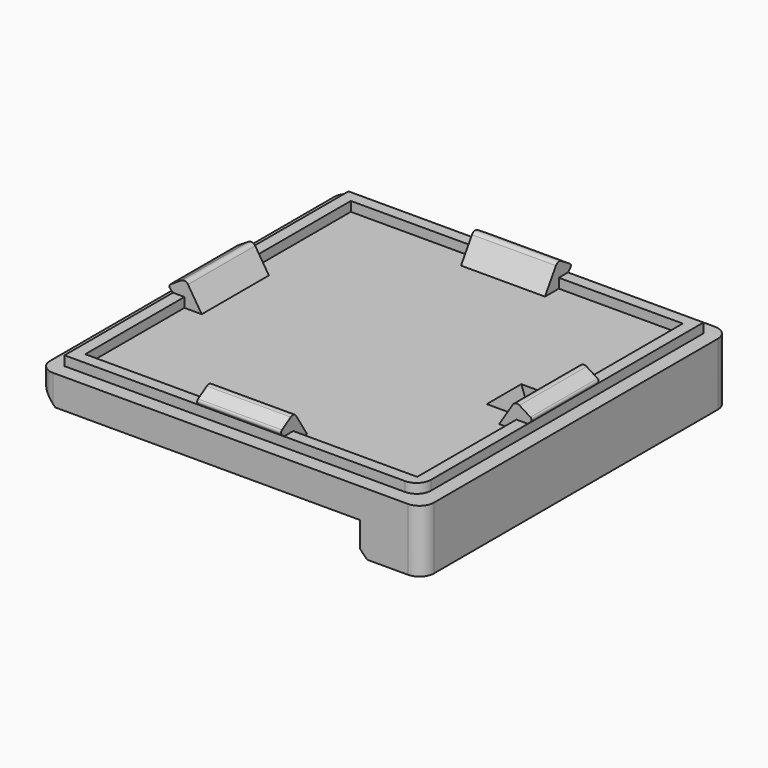
from build123d import *

# Parameters (mm, degrees)
SKETCH_W           = 80
SKETCH_H           = 80
PAD_DEPTH          = 13
PAD001_DEPTH       = 8.75
POLARPATTERN_COUNT = 4
SKETCH006_W        = 67
SKETCH006_H        = 6.8
POCKET_DEPTH       = 40.001
POCKET_DEPTH_BACK  = 40.001
SKETCH008_W        = 9
SKETCH008_H        = 9
CHAMFER_SIZE       = 3.5
FILLET_R           = 3
CHAMFER002_SIZE    = 1.5
SKETCH014_W        = 74
SKETCH014_H        = 74
SKETCH014_W_2      = 69.2
SKETCH014_H_2      = 69.2
PAD005_DEPTH       = 2
FILLET003_R        = 3


with BuildPart() as part:
    # Sketch → Pad (new body)
    with BuildSketch(Plane.XY):
        Rectangle(SKETCH_W, SKETCH_H)
    extrude(amount=-PAD_DEPTH)

    # Sketch001 → Pad001 (join, symmetric)
    with BuildSketch(Plane.YZ):
        with BuildLine():
            Line((31, 0), (33.85683, 4.513208))
            ThreePointArc((35.236626, 4.82331), (34.482504, 4.954025), (33.85683, 4.513208))
            Line((35.236626, 4.82331), (37.517423, 3.379581))
            ThreePointArc((37.603553, 2.603553), (37.746949, 3.012262), (37.517423, 3.379581))
            Line((37.603553, 2.603553), (37, 2))
            Line((37, 2), (37, 0))
            Line((37, 0), (31, 0))
        make_face()
    pad001 = extrude(amount=PAD001_DEPTH, both=True)

    # PolarPattern: Pad001 ×4 about axis
    polarpattern_axis = Axis((0, 0, 0), (0, 0, 1))
    for i in range(1, POLARPATTERN_COUNT):
        add(pad001.rotate(polarpattern_axis, i * 360 / POLARPATTERN_COUNT))

    # Sketch006 → Pocket (cut, two sides)
    with BuildSketch(Plane.XZ) as pocket_sk:
        with Locations((-6.5, -9.6)):
            Rectangle(SKETCH006_W, SKETCH006_H)
    extrude(amount=-POCKET_DEPTH, mode=Mode.SUBTRACT)
    extrude(pocket_sk.sketch, amount=POCKET_DEPTH_BACK, mode=Mode.SUBTRACT)

    # SubtractivePipe: sweep along a path in Sketch009
    with BuildLine(Plane.XZ) as subtractivepipe_path:
        Line((31.5, -13), (31.5, -6.420201))
        ThreePointArc((31.5, -6.420201), (31.348078, -4.68372), (30.896926, -3))
        Line((30.896926, -3), (26.165313, 10))
    # Sketch008 (on Face4 of Pocket) → SubtractivePipe (sweep, cut)
    with BuildSketch(Plane(origin=(0, 0, -13), x_dir=(1, 0, 0), z_dir=(0, 0, -1))):
        with Locations((31.5, 0)):
            Rectangle(SKETCH008_W, SKETCH008_H)
    sweep(path=subtractivepipe_path.line, mode=Mode.SUBTRACT)

    # Chamfer
    chamfer_edges = [part.edges().sort_by_distance(p)[0] for p in [
        (-40, 0, -6.2),
    ]]
    chamfer(chamfer_edges, length=CHAMFER_SIZE)

    # Fillet
    fillet_edges = [part.edges().sort_by_distance(p)[0] for p in [
        (40, -40, -6.5),
        (40, 40, -6.5),
        (-40, 40, -1.35),
        (-40, -40, -1.35),
    ]]
    fillet(fillet_edges, radius=FILLET_R)

    # Chamfer002
    chamfer002_edges = [part.edges().sort_by_distance(p)[0] for p in [
        (27, 22.25, -13),
        (27, -22.25, -13),
    ]]
    chamfer(chamfer002_edges, length=CHAMFER002_SIZE)

    # Sketch014 → Pad005 (join)
    with BuildSketch(Plane.XY):
        Rectangle(SKETCH014_W, SKETCH014_H)
        Rectangle(SKETCH014_W_2, SKETCH014_H_2, mode=Mode.SUBTRACT)
    extrude(amount=PAD005_DEPTH)

    # Fillet003
    fillet003_edges = [part.edges().sort_by_distance(p)[0] for p in [
        (-35.236626, 0, 4.82331),
        (37, -37, 1),
        (0, -35.236626, 4.82331),
        (0, 35.236626, 4.82331),
    ]]
    fillet(fillet003_edges, radius=FILLET003_R)


solid = part.part
